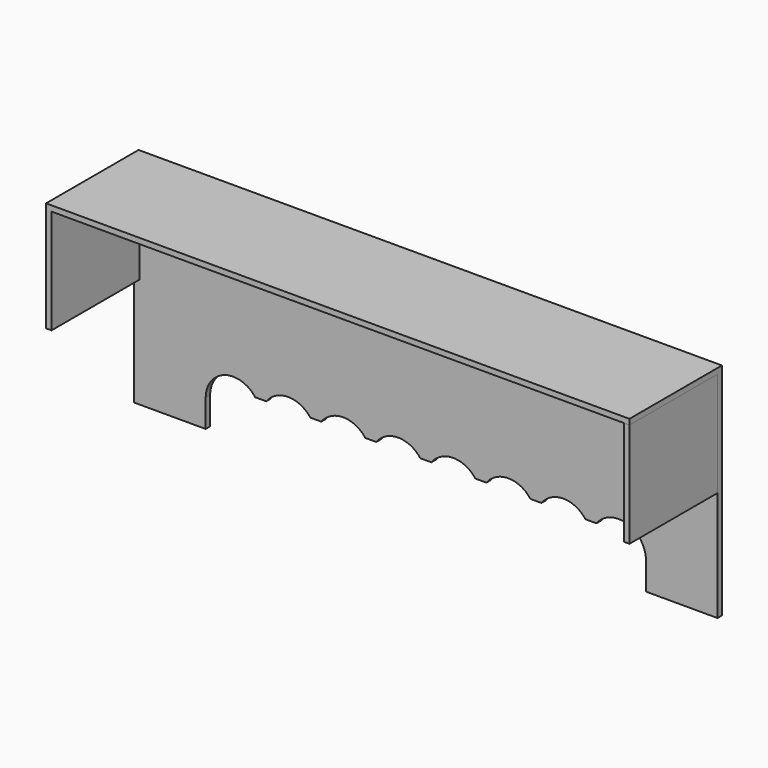
from build123d import *

# Parameters (mm, degrees)
F1_DEPTH = 53
F2_W     = 20
F2_H     = 19
F3_DEPTH = 1
F5_DEPTH = 1


with BuildPart() as f1:
    # F0 (on Right) → F1 (new body)
    with BuildSketch(Plane.YZ):
        Polygon((0, 40), (-21, 40), (-21, 39), (-1, 39), (-1, 0), (0, 0), align=None)
    extrude(amount=F1_DEPTH)

    # F4 (on face) → F5 (cut, through all)
    with BuildSketch(Plane(origin=(0, 0, 0), x_dir=(-1, 0, 0), z_dir=(0, 1, 0))):
        with BuildLine():
            Line((-40, 5), (-40, 0))
            Line((-40, 0), (0, 0))
            Line((0, 0), (0, 5))
            Line((0, 5), (0, 8))
            Line((0, 8), (-1, 8))
            ThreePointArc((-1, 8), (-5, 10), (-9, 8))
            Line((-9, 8), (-11, 8))
            ThreePointArc((-11, 8), (-15, 10), (-19, 8))
            Line((-19, 8), (-21, 8))
            ThreePointArc((-21, 8), (-25, 10), (-29, 8))
            Line((-29, 8), (-31, 8))
            ThreePointArc((-31, 8), (-36.5811388301, 9.7434164903), (-40, 5))
        make_face()
    extrude(amount=-F5_DEPTH, mode=Mode.SUBTRACT)



with BuildPart() as f3:
    # F2 (on face) → F3 (new body)
    with BuildSketch(Plane.YZ.offset(53)):
        with Locations((-11, 29.5)):
            Rectangle(F2_W, F2_H)
    extrude(amount=-F3_DEPTH)


with BuildPart() as f1_1:
    add(f1.part)
    # F6: F3, F1 across plane
    add(f3.part.mirror(Plane.YZ))
    add(f1.part.mirror(Plane.YZ))


solid = Compound([f3.part, f1_1.part])
